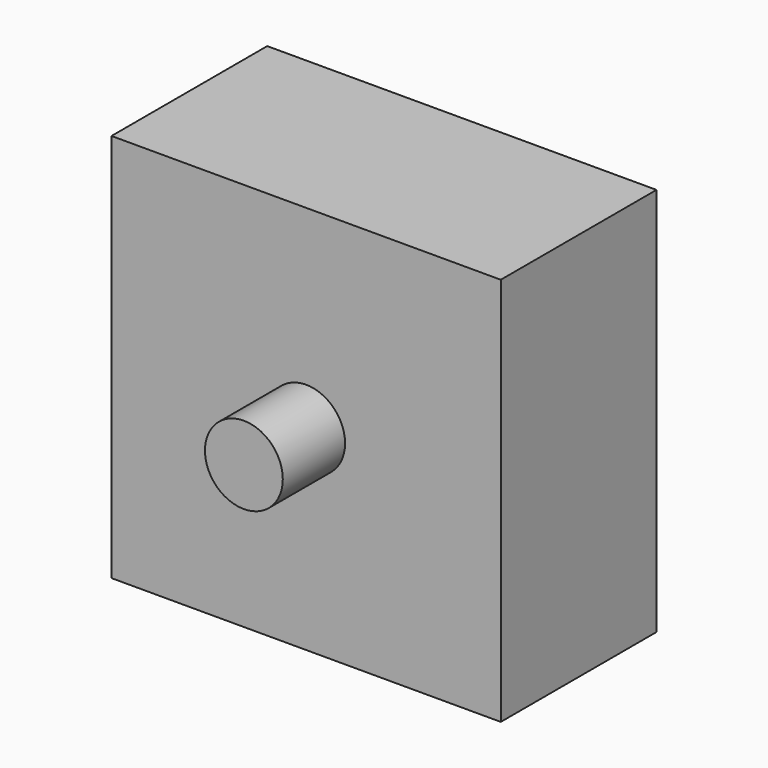
from build123d import *

# Parameters (mm, degrees)
F0_W     = 50
F0_H     = 50
F1_DEPTH = 25
F2_R     = 5
F3_DEPTH = 10


with BuildPart() as f1:
    # F0 (on Front) → F1 (new body)
    with BuildSketch(Plane.XZ):
        Rectangle(F0_W, F0_H)
    extrude(amount=-F1_DEPTH)

    # F2 (on face) → F3 (join)
    with BuildSketch(Plane.XZ):
        Circle(F2_R)
    extrude(amount=F3_DEPTH)


solid = f1.part
